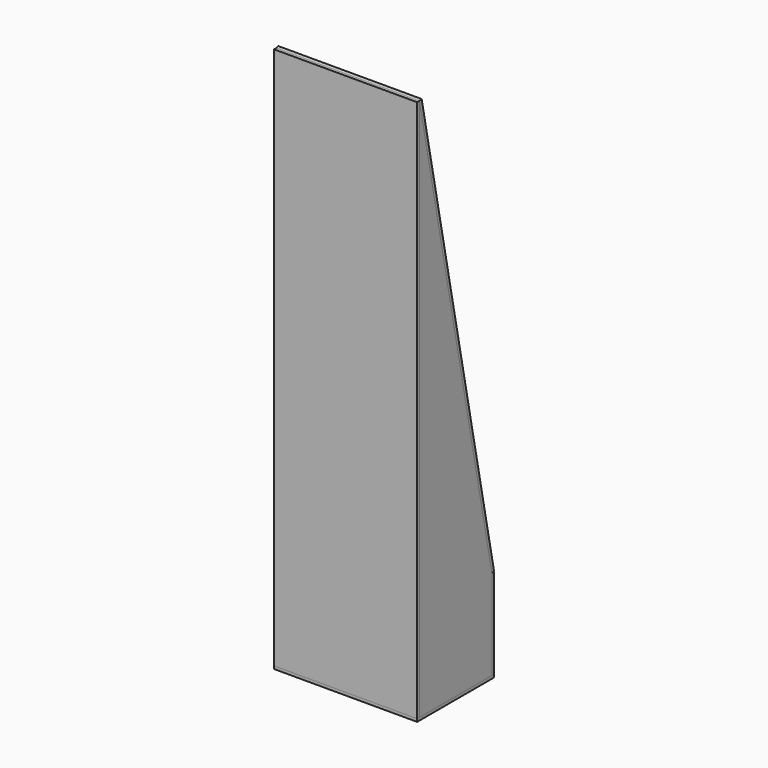
from build123d import *

# Parameters (mm, degrees)
F1_DEPTH  = 9.525
F2_W      = 482.6
F2_H      = 304.8
F3_DEPTH  = 9.525
F4_W      = 482.6
F4_H      = 1554.181148
F5_DEPTH  = 9.525
F6_W      = 482.6
F6_H      = 1828.8
F7_DEPTH  = 9.525
F8_W      = 482.6
F8_H      = 323.85
F9_DEPTH  = 9.525
F10_R     = 16.764
F11_DEPTH = 12.7
F12_W     = 463.55
F12_H     = 88.9
F12_R     = 16.764
F13_DEPTH = 12.7
F14_R     = 16.7005
F14_R_2   = 13.335
F15_DEPTH = 254


with BuildPart() as f1:
    # F0 (on Right) → F1 (new body)
    with BuildSketch(Plane.YZ):
        Polygon((0, 1828.8), (0, 0), (304.8, 0), (304.8, 304.8), align=None)
    extrude(amount=F1_DEPTH)


with BuildPart() as f3:
    # F2 (on face) → F3 (new body)
    with BuildSketch(Plane(origin=(0, 304.8, 0), x_dir=(-1, 0, 0), z_dir=(0, 1, 0))):
        with Locations((231.775, 152.4)):
            Rectangle(F2_W, F2_H)
    extrude(amount=F3_DEPTH)


with BuildPart() as f5:
    # F4 (on face) → F5 (new body)
    with BuildSketch(Plane(origin=(0, 351.692308, 70.338462), x_dir=(-1, 0, 0), z_dir=(0, 0.980581, 0.196116))):
        with Locations((231.775, 1016.195366)):
            Rectangle(F4_W, F4_H)
    extrude(amount=F5_DEPTH)

    # F10 (on face) → F11 (cut)
    with BuildSketch(Plane(origin=(0, 361.032339, 72.206468), x_dir=(-1, 0, 0), z_dir=(0, 0.980581, 0.196116))):
        with Locations((41.275, 315.304792)):
            Circle(F10_R)
        with Locations((41.275, 416.904792)):
            Circle(F10_R)
        with Locations((168.275, 315.304792)):
            Circle(F10_R)
        with Locations((168.275, 416.904792)):
            Circle(F10_R)
        with Locations((295.275, 315.304792)):
            Circle(F10_R)
        with Locations((295.275, 416.904792)):
            Circle(F10_R)
        with Locations((422.275, 315.304792)):
            Circle(F10_R)
        with Locations((422.275, 416.904792)):
            Circle(F10_R)
        with Locations((422.275, 721.704792)):
            Circle(F10_R)
        with Locations((422.275, 823.304792)):
            Circle(F10_R)
        with Locations((168.275, 721.704792)):
            Circle(F10_R)
        with Locations((168.275, 823.304792)):
            Circle(F10_R)
        with Locations((295.275, 721.704792)):
            Circle(F10_R)
        with Locations((41.275, 823.304792)):
            Circle(F10_R)
        with Locations((41.275, 721.704792)):
            Circle(F10_R)
        with Locations((295.275, 823.304792)):
            Circle(F10_R)
        with Locations((422.275, 1128.104792)):
            Circle(F10_R)
        with Locations((422.275, 1229.704792)):
            Circle(F10_R)
        with Locations((168.275, 1128.104792)):
            Circle(F10_R)
        with Locations((168.275, 1229.704792)):
            Circle(F10_R)
        with Locations((295.275, 1128.104792)):
            Circle(F10_R)
        with Locations((41.275, 1229.704792)):
            Circle(F10_R)
        with Locations((41.275, 1128.104792)):
            Circle(F10_R)
        with Locations((295.275, 1229.704792)):
            Circle(F10_R)
        with Locations((422.275, 1534.504792)):
            Circle(F10_R)
        with Locations((422.275, 1636.104792)):
            Circle(F10_R)
        with Locations((168.275, 1534.504792)):
            Circle(F10_R)
        with Locations((168.275, 1636.104792)):
            Circle(F10_R)
        with Locations((295.275, 1534.504792)):
            Circle(F10_R)
        with Locations((41.275, 1636.104792)):
            Circle(F10_R)
        with Locations((41.275, 1534.504792)):
            Circle(F10_R)
        with Locations((295.275, 1636.104792)):
            Circle(F10_R)
    extrude(amount=-F11_DEPTH, mode=Mode.SUBTRACT)


with BuildPart() as f7:
    # F6 (on face) → F7 (new body)
    with BuildSketch(Plane.XZ):
        with Locations((-231.775, 914.4)):
            Rectangle(F6_W, F6_H)
    extrude(amount=F7_DEPTH)


with BuildPart() as f9:
    # F8 (on face) → F9 (new body)
    with BuildSketch(Plane(origin=(0, 0, 0), x_dir=(1, 0, 0), z_dir=(0, 0, -1))):
        with Locations((-231.775, -152.4)):
            Rectangle(F8_W, F8_H)
    extrude(amount=F9_DEPTH)


with BuildPart() as f13:
    # F12 (on face) → F13 (new body)
    with BuildSketch(Plane(origin=(0, 351.692308, 70.338462), x_dir=(1, 0, 0), z_dir=(0, -0.980581, -0.196116))):
        with Locations((-231.775, 315.304792)):
            Rectangle(F12_W, F12_H)
        with Locations((-422.275, 315.304792)):
            Circle(F12_R, mode=Mode.SUBTRACT)
        with Locations((-295.275, 315.304792)):
            Circle(F12_R, mode=Mode.SUBTRACT)
        with Locations((-168.275, 315.304792)):
            Circle(F12_R, mode=Mode.SUBTRACT)
        with Locations((-41.275, 315.304792)):
            Circle(F12_R, mode=Mode.SUBTRACT)
    extrude(amount=F13_DEPTH)


with BuildPart() as f15:
    # F14 (on face) → F15 (new body)
    with BuildSketch(Plane(origin=(0, 339.238933, 67.847787), x_dir=(1, 0, 0), z_dir=(0, -0.980581, -0.196116))):
        with Locations((-422.275, 315.304792)):
            Circle(F14_R)
        with Locations((-422.275, 315.304792)):
            Circle(F14_R_2, mode=Mode.SUBTRACT)
    extrude(amount=-F15_DEPTH)


solid = Compound([f1.part, f3.part, f5.part, f7.part, f9.part, f13.part, f15.part])
